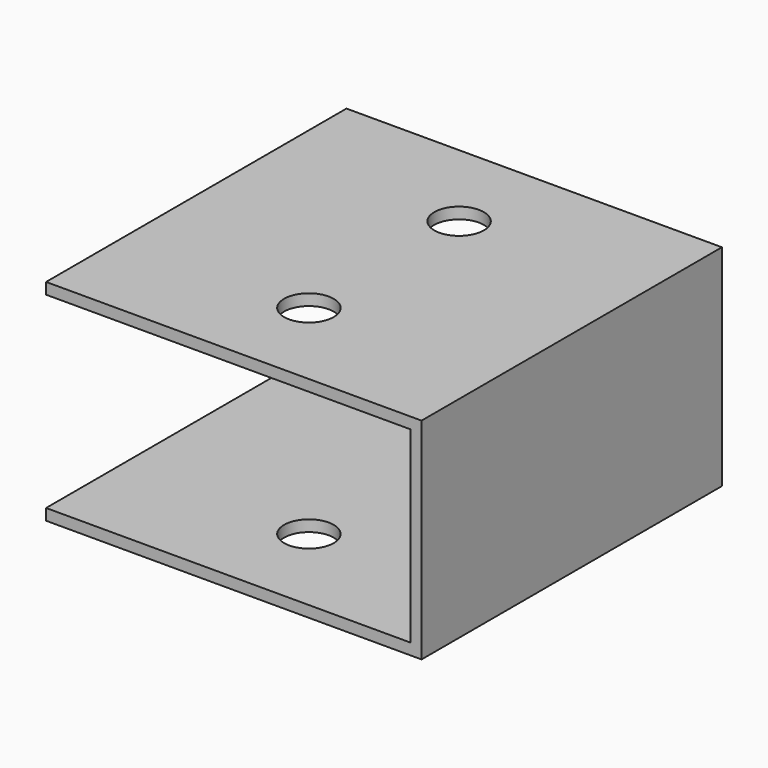
from build123d import *

# Parameters (mm, degrees)
F1_DEPTH = 100
F3_D     = 13.2


with BuildPart() as f1:
    # F0 (on Front) → F1 (new body)
    with BuildSketch(Plane.XZ):
        Polygon((-100, 0), (0, 0), (0, 56), (-100, 56), (-100, 53), (-3, 53), (-3, 3), (-100, 3), align=None)
    extrude(amount=F1_DEPTH)

    # F3 (through all)
    with Locations(Plane.XY.offset(56)):
        with Locations((-50, -75), (-50, -25)):
            Hole(F3_D / 2)


solid = f1.part
